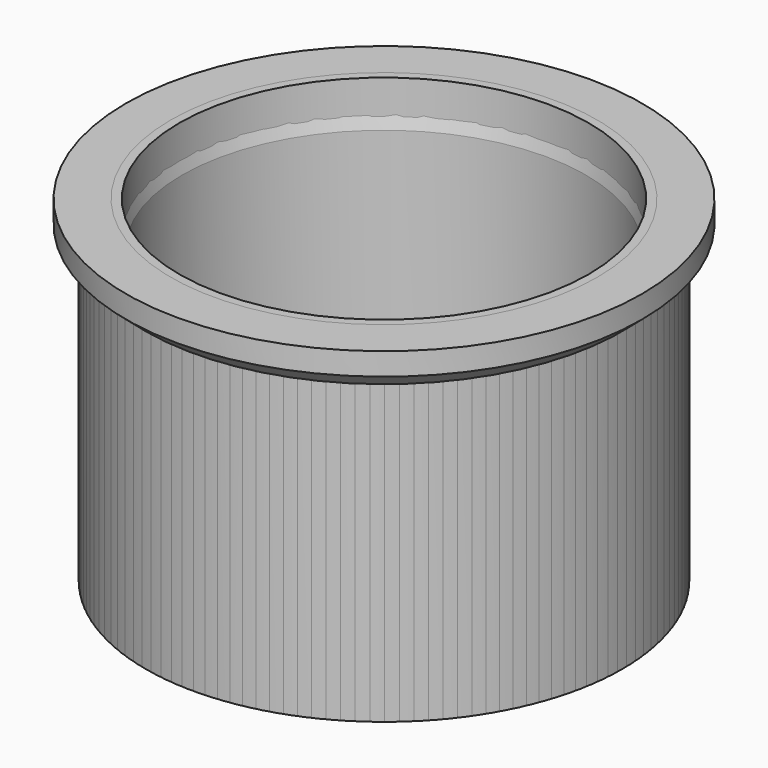
from build123d import *

# Parameters (mm, degrees)
SKETCH_R         = 21.25
PAD_DEPTH        = 30
HOLE_D           = 32
HOLE_CBORE_D     = 36.5
HOLE_CBORE_DEPTH = 27
FILLET_R         = 1.5
POCKET_DEPTH     = 5


with BuildPart() as body:
    # Sketch → Pad (new body)
    with BuildSketch(Plane.XY):
        Circle(SKETCH_R)
    extrude(amount=PAD_DEPTH)

    # Hole (through all)
    with Locations(Plane.XY.offset(30)):
        with Locations((0, 0)):
            CounterBoreHole(HOLE_D / 2, HOLE_CBORE_D / 2, HOLE_CBORE_DEPTH)

    # Fillet
    fillet_edges = [body.edges().sort_by_distance(p)[0] for p in [
        (-18.25, 0, 3),
    ]]
    fillet(fillet_edges, radius=FILLET_R)


with BuildPart() as body001:
    # Sketch002 → Revolution (revolve)
    with BuildSketch(Plane.XZ):
        Polygon((-21.25, 26.5), (-21.25, 0), (-16, 0), (-16, 3), (-18, 3), (-18, 26), (-19, 30), (-23, 30), (-23, 28), align=None)
    revolve(axis=Axis((0, 0, 0), (0, 0, 1)))

    # Sketch003 (on Face6 of Revolution) → Pocket (cut)
    with BuildSketch(Plane(origin=(0, 0, 3), x_dir=(-1, 0, 0), z_dir=(0, 0, 1))):
        with BuildLine():
            ThreePointArc((10, 14.96663), (0, 18), (-10, 14.96663))
            Line((-10, 14.96663), (-10, 0))
            Line((-10, 0), (10, 0))
            Line((10, 14.96663), (10, 0))
        make_face()
    extrude(amount=-POCKET_DEPTH, mode=Mode.SUBTRACT)


solid = Compound([body.part, body001.part])
